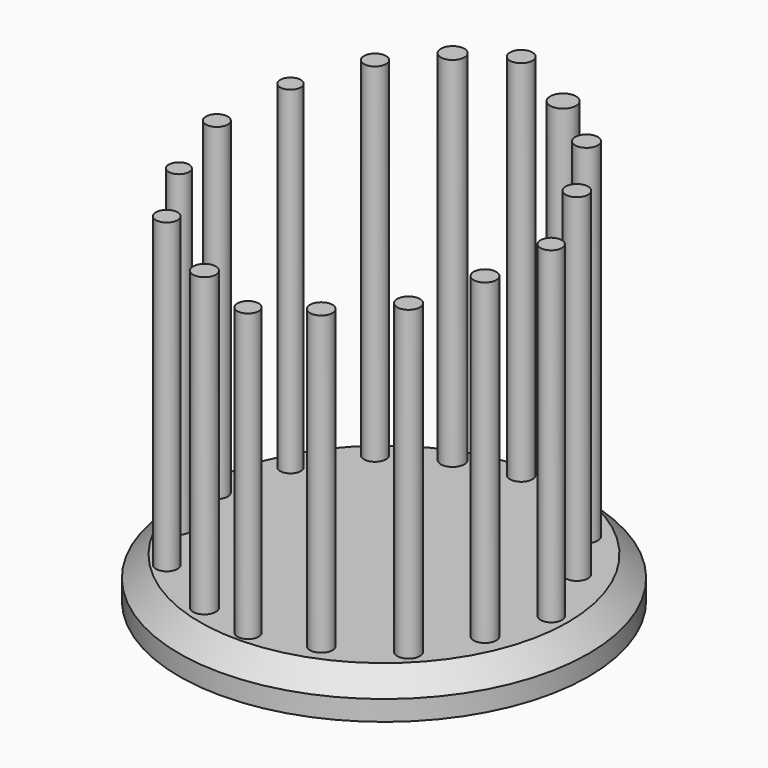
from build123d import *

# Parameters (mm, degrees)
F0_R      = 50
F0_R_2    = 46.581391
F0_R_3    = 2.632067
F0_R_4    = 2.770688
F0_R_5    = 2.478179
F0_R_6    = 2.596253
F0_R_7    = 2.75034
F0_R_8    = 2.770687
F0_R_9    = 2.750345
F0_R_10   = 2.669152
F0_R_11   = 2.523107
F0_R_12   = 2.688372
F0_R_13   = 2.876785
F0_R_14   = 2.605253
F0_R_15   = 2.736693
F0_R_16   = 3.150169
F0_R_17   = 2.750341
F1_DEPTH  = 10
F2_SIZE   = 5.08
F3_DEPTH  = 100
F4_DEPTH  = 97.5
F5_DEPTH  = 95
F6_DEPTH  = 92.5
F7_DEPTH  = 90
F8_DEPTH  = 87.5
F9_DEPTH  = 85
F10_DEPTH = 82.5
F11_DEPTH = 80


with BuildPart() as f1:
    # F0 (on Top) → F1 (new body)
    with BuildSketch(Plane.XY):
        Circle(F0_R)
        Circle(F0_R_2, mode=Mode.SUBTRACT)
        Circle(F0_R_2)
        with Locations((-29.607549, -29.317277)):
            Circle(F0_R_3, mode=Mode.SUBTRACT)
        with Locations((-12.965396, -38.605922)):
            Circle(F0_R_4, mode=Mode.SUBTRACT)
        with Locations((-37.15457, -16.158367)):
            Circle(F0_R_5, mode=Mode.SUBTRACT)
        with Locations((0, -41.508623)):
            Circle(F0_R_6, mode=Mode.SUBTRACT)
        with Locations((14.319992, -37.057813)):
            Circle(F0_R_7, mode=Mode.SUBTRACT)
        with Locations((28.833498, -28.543224)):
            Circle(F0_R_8, mode=Mode.SUBTRACT)
        with Locations((36.187002, -14.416747)):
            Circle(F0_R_9, mode=Mode.SUBTRACT)
        with Locations((-40.831324, 0)):
            Circle(F0_R_10, mode=Mode.SUBTRACT)
        with Locations((-36.380517, 16.93242)):
            Circle(F0_R_11, mode=Mode.SUBTRACT)
        with Locations((-26.89836, 30.865383)):
            Circle(F0_R_12, mode=Mode.SUBTRACT)
        with Locations((-14.126476, 38.605922)):
            Circle(F0_R_13, mode=Mode.SUBTRACT)
        with Locations((40.831324, 0)):
            Circle(F0_R_14, mode=Mode.SUBTRACT)
        with Locations((33.864841, 16.545395)):
            Circle(F0_R_15, mode=Mode.SUBTRACT)
        with Locations((14.707019, 36.283758)):
            Circle(F0_R_16, mode=Mode.SUBTRACT)
        with Locations((0, 41.895645)):
            Circle(F0_R_17, mode=Mode.SUBTRACT)
        with Locations((25.543767, 29.897818)):
            Circle(F0_R_4, mode=Mode.SUBTRACT)
    extrude(amount=F1_DEPTH)

    # F2
    f2_edges = [f1.edges().sort_by_distance(p)[0] for p in [
        (-50, 0, 10),
    ]]
    chamfer(f2_edges, length=F2_SIZE)

    # F0 (on Top) → F3 (join)
    with BuildSketch(Plane.XY):
        with Locations((0, 41.895645)):
            Circle(F0_R_17)
    extrude(amount=F3_DEPTH)

    # F0 (on Top) → F4 (join)
    with BuildSketch(Plane.XY):
        with Locations((-14.126476, 38.605922)):
            Circle(F0_R_13)
        with Locations((14.707019, 36.283758)):
            Circle(F0_R_16)
    extrude(amount=F4_DEPTH)

    # F0 (on Top) → F5 (join)
    with BuildSketch(Plane.XY):
        with Locations((-26.89836, 30.865383)):
            Circle(F0_R_12)
        with Locations((25.543767, 29.897818)):
            Circle(F0_R_4)
    extrude(amount=F5_DEPTH)

    # F0 (on Top) → F6 (join)
    with BuildSketch(Plane.XY):
        with Locations((-36.380517, 16.93242)):
            Circle(F0_R_11)
        with Locations((33.864841, 16.545395)):
            Circle(F0_R_15)
    extrude(amount=F6_DEPTH)

    # F0 (on Top) → F7 (join)
    with BuildSketch(Plane.XY):
        with Locations((40.831324, 0)):
            Circle(F0_R_14)
        with Locations((-40.831324, 0)):
            Circle(F0_R_10)
    extrude(amount=F7_DEPTH)

    # F0 (on Top) → F8 (join)
    with BuildSketch(Plane.XY):
        with Locations((-37.15457, -16.158367)):
            Circle(F0_R_5)
        with Locations((36.187002, -14.416747)):
            Circle(F0_R_9)
    extrude(amount=F8_DEPTH)

    # F0 (on Top) → F9 (join)
    with BuildSketch(Plane.XY):
        with Locations((28.833498, -28.543224)):
            Circle(F0_R_8)
        with Locations((-29.607549, -29.317277)):
            Circle(F0_R_3)
    extrude(amount=F9_DEPTH)

    # F0 (on Top) → F10 (join)
    with BuildSketch(Plane.XY):
        with Locations((14.319992, -37.057813)):
            Circle(F0_R_7)
        with Locations((-12.965396, -38.605922)):
            Circle(F0_R_4)
    extrude(amount=F10_DEPTH)

    # F0 (on Top) → F11 (join)
    with BuildSketch(Plane.XY):
        with Locations((0, -41.508623)):
            Circle(F0_R_6)
    extrude(amount=F11_DEPTH)


solid = f1.part
